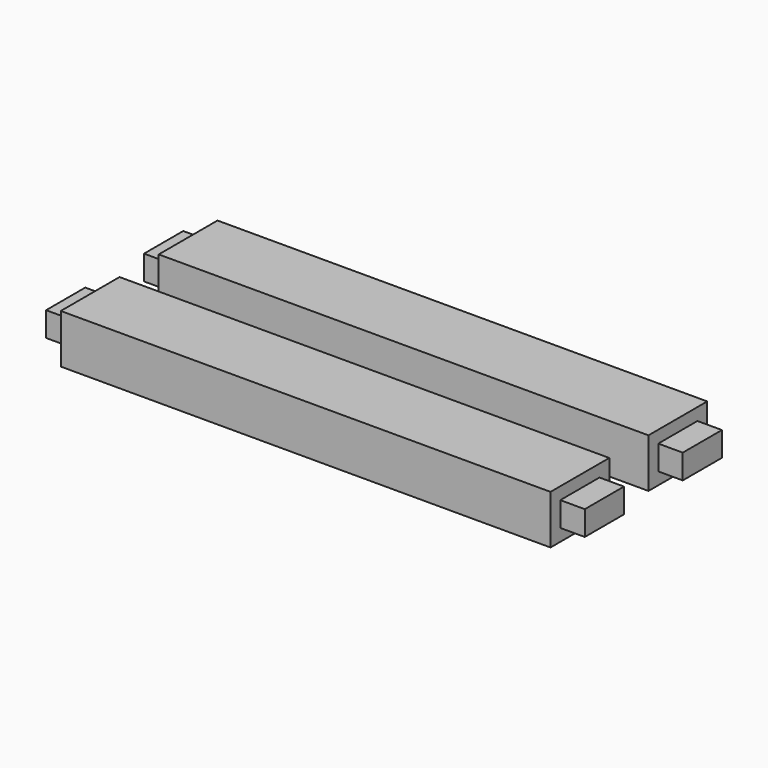
from build123d import *

# Parameters (mm, degrees)
F0_W     = 200
F0_H     = 30
F1_DEPTH = 20
F2_W     = 20
F2_H     = 10
F3_DEPTH = 10


with BuildPart() as f1:
    # F0 (on Top) → F1 (new body)
    with BuildSketch(Plane.XY):
        Rectangle(F0_W, F0_H)
    extrude(amount=F1_DEPTH)

    # F2 (on face) → F3 (join)
    with BuildSketch(Plane.YZ.offset(100)):
        with Locations((0, 10)):
            Rectangle(F2_W, F2_H)
    extrude(amount=F3_DEPTH)

    # F4: F1 across plane


with BuildPart() as f1_1:
    add(f1.part)
    add(f1.part.mirror(Plane.YZ))


with BuildPart() as f5_1:
    # F5: copy of F1
    add(f1_1.part.moved(Location((0, 50, 0))))


solid = Compound([f1_1.part, f5_1.part])
